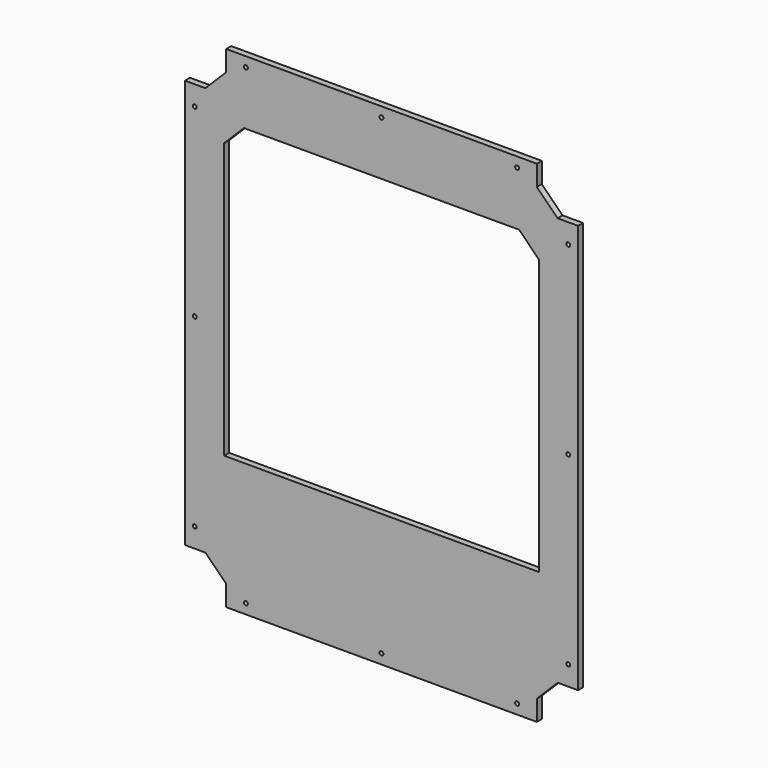
from build123d import *

# Parameters (mm, degrees)
F0_R     = 2.01
F1_DEPTH = 6.35


with BuildPart() as f1:
    # F0 (on Front) → F1 (new body)
    with BuildSketch(Plane.XZ):
        Polygon((179.1715728753, -208), (190, -208), (200, -208), (200, 208), (190, 208), (179.1715728753, 208), (168.5857864376, 218.5857864376), (158, 229.1715728753), (158, 240), (158, 250), (-158, 250), (-158, 240), (-158, 229.1715728753), (-168.5857864376, 218.5857864376), (-179.1715728753, 208), (-190, 208), (-200, 208), (-200, -208), (-190, -208), (-179.1715728753, -208), (-168.5857864376, -218.5857864376), (-158, -229.1715728753), (-158, -240), (-158, -250), (158, -250), (158, -240), (158, -229.1715728753), (168.5857864376, -218.5857864376), align=None)
        with Locations((-190, -188)):
            Circle(F0_R, mode=Mode.SUBTRACT)
        with Locations((-138, -240)):
            Circle(F0_R, mode=Mode.SUBTRACT)
        with Locations((0, -240)):
            Circle(F0_R, mode=Mode.SUBTRACT)
        with Locations((138, -240)):
            Circle(F0_R, mode=Mode.SUBTRACT)
        with Locations((190, -188)):
            Circle(F0_R, mode=Mode.SUBTRACT)
        with Locations((-190, 0)):
            Circle(F0_R, mode=Mode.SUBTRACT)
        with Locations((-190, 188)):
            Circle(F0_R, mode=Mode.SUBTRACT)
        with Locations((-138, 240)):
            Circle(F0_R, mode=Mode.SUBTRACT)
        Polygon((-140, 185), (140, 185), (160, 165), (160, -115), (0, -115), (-160, -115), (-160, 165), align=None, mode=Mode.SUBTRACT)
        with Locations((190, 0)):
            Circle(F0_R, mode=Mode.SUBTRACT)
        with Locations((0, 240)):
            Circle(F0_R, mode=Mode.SUBTRACT)
        with Locations((138, 240)):
            Circle(F0_R, mode=Mode.SUBTRACT)
        with Locations((190, 188)):
            Circle(F0_R, mode=Mode.SUBTRACT)
        Polygon((179.1715728753, -208), (190, -208), (200, -208), (200, 208), (190, 208), (179.1715728753, 208), (168.5857864376, 218.5857864376), (158, 229.1715728753), (158, 240), (158, 250), (-158, 250), (-158, 240), (-158, 229.1715728753), (-168.5857864376, 218.5857864376), (-179.1715728753, 208), (-190, 208), (-200, 208), (-200, -208), (-190, -208), (-179.1715728753, -208), (-168.5857864376, -218.5857864376), (-158, -229.1715728753), (-158, -240), (-158, -250), (158, -250), (158, -240), (158, -229.1715728753), (168.5857864376, -218.5857864376), align=None)
        with Locations((-190, -188)):
            Circle(F0_R, mode=Mode.SUBTRACT)
        with Locations((-138, -240)):
            Circle(F0_R, mode=Mode.SUBTRACT)
        with Locations((0, -240)):
            Circle(F0_R, mode=Mode.SUBTRACT)
        with Locations((138, -240)):
            Circle(F0_R, mode=Mode.SUBTRACT)
        with Locations((190, -188)):
            Circle(F0_R, mode=Mode.SUBTRACT)
        with Locations((-190, 0)):
            Circle(F0_R, mode=Mode.SUBTRACT)
        with Locations((-190, 188)):
            Circle(F0_R, mode=Mode.SUBTRACT)
        with Locations((-138, 240)):
            Circle(F0_R, mode=Mode.SUBTRACT)
        Polygon((-140, 185), (140, 185), (160, 165), (160, -115), (0, -115), (-160, -115), (-160, 165), align=None, mode=Mode.SUBTRACT)
        with Locations((190, 0)):
            Circle(F0_R, mode=Mode.SUBTRACT)
        with Locations((0, 240)):
            Circle(F0_R, mode=Mode.SUBTRACT)
        with Locations((138, 240)):
            Circle(F0_R, mode=Mode.SUBTRACT)
        with Locations((190, 188)):
            Circle(F0_R, mode=Mode.SUBTRACT)
    extrude(amount=F1_DEPTH)


solid = f1.part
